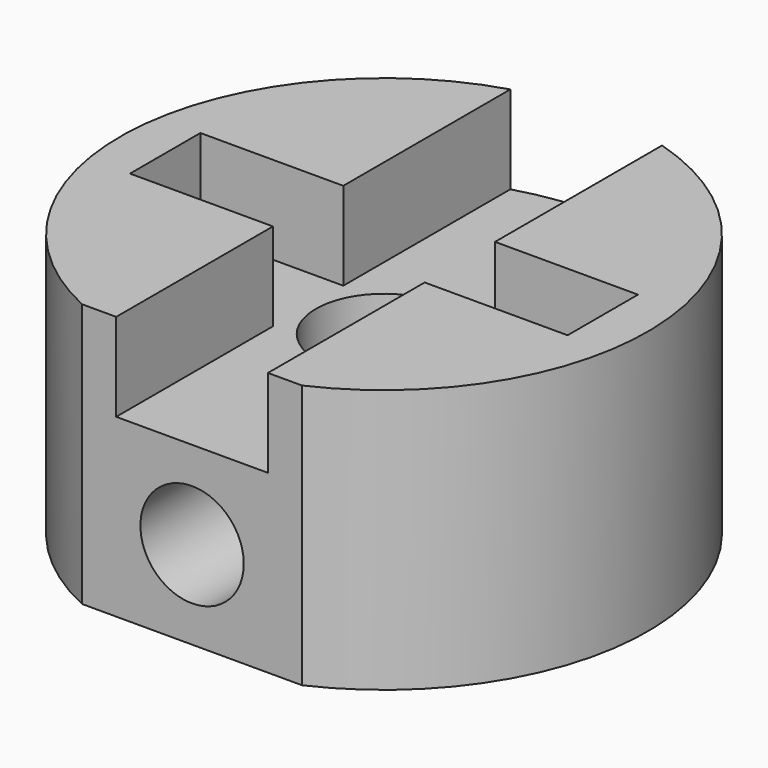
from build123d import *

# Parameters (mm, degrees)
PAD125_DEPTH            = 4
SKETCH248_R             = 12
PAD126_DEPTH            = 12
POCKET089_DEPTH         = 8
SKETCH249_R             = 3.1
POCKET090_DEPTH         = 12.001
SKETCH250_R             = 2.35
POCKET091_DEPTH         = 12.001
SKETCH251_W             = 10
SKETCH251_H             = 6.070738
POCKET092_DEPTH         = 12.001
BODY142_PLACEMENT_ANGLE = 180


with BuildPart() as part:
    # Sketch247 → Pad125 (new body)
    with BuildSketch(Plane.XY):
        Polygon((-3.45, 2), (-3.45, 18.25), (3.45, 18.25), (3.45, 2), (9.95, 2), (9.95, -2), (3.45, -2), (3.45, -18.25), (-3.45, -18.25), (-3.45, -2), (-9.95, -2), (-9.95, 2), align=None)
    extrude(amount=PAD125_DEPTH)

    # Sketch248 (on Face14 of Pad125) → Pad126 (join)
    with BuildSketch(Plane.XY.offset(4)):
        Circle(SKETCH248_R)
    extrude(amount=PAD126_DEPTH)

    # Pad126 Face4 → Pocket089 (cut)
    with BuildSketch(Plane(origin=(0, 0, 0), x_dir=(0, -1, 0), z_dir=(0, 0, -1))):
        Polygon((-2, 3.45), (-18.25, 3.45), (-18.25, -3.45), (-2, -3.45), (-2, -9.95), (2, -9.95), (2, -3.45), (18.25, -3.45), (18.25, 3.45), (2, 3.45), (2, 9.95), (-2, 9.95), align=None)
    extrude(amount=-POCKET089_DEPTH, mode=Mode.SUBTRACT)

    # Sketch249 (on Face9 of Pocket089) → Pocket090 (cut, through all)
    with BuildSketch(Plane.XY.offset(16)):
        Circle(SKETCH249_R)
    extrude(amount=-POCKET090_DEPTH, mode=Mode.SUBTRACT)

    # Sketch250 → Pocket091 (cut, through all)
    with BuildSketch(Plane.XZ):
        with Locations((0, 12)):
            Circle(SKETCH250_R)
    extrude(amount=-POCKET091_DEPTH, mode=Mode.SUBTRACT)

    # Sketch251 (on Face12 of Pocket091) → Pocket092 (cut, through all)
    with BuildSketch(Plane.XY.offset(16)):
        with Locations((0, 13.944081)):
            Rectangle(SKETCH251_W, SKETCH251_H)
    extrude(amount=-POCKET092_DEPTH, mode=Mode.SUBTRACT)


with BuildPart() as part_1:
    # Body142 placement: moved
    add(part.part.moved(Location((0, -90, 0))).rotate(Axis((0, -90, 0), (-1, 0, 0)), BODY142_PLACEMENT_ANGLE))


solid = part_1.part
